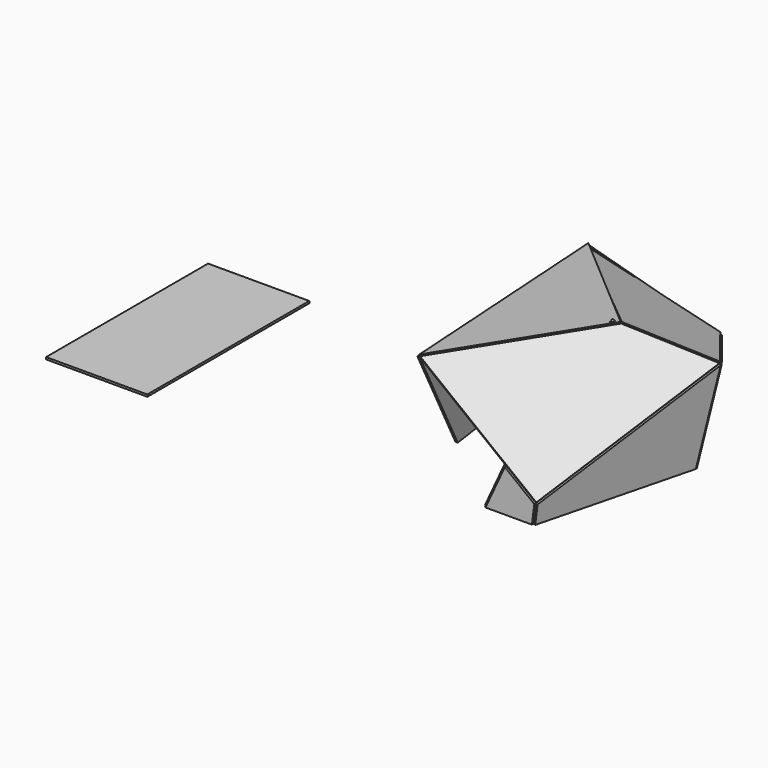
from build123d import *

# Parameters (mm, degrees)
F16_DEPTH = 25.4
F17_DEPTH = 25.4
F18_DEPTH = 25.4
F19_DEPTH = 25.4
F20_DEPTH = 25.4
F21_DEPTH = 25.4
F22_DEPTH = 25.4
F23_DEPTH = 25.4
F26_DEPTH = 25.4
F31_DEPTH = 25.4
F32_DEPTH = 25.4
F33_W     = 1219.2
F33_H     = 2438.4
F34_DEPTH = 25.4
F35_DEPTH = 25.4


with BuildPart() as f16:
    # F1 (on Front) → F16 (new body)
    with BuildSketch(Plane.XZ):
        Polygon((-279.4, 0), (279.4, 0), (307.8816668442, 226.8187705058), (-46.8548983335, 503.6984086037), align=None)
    extrude(amount=F16_DEPTH)


with BuildPart() as f17:
    # F3 (on 3pt) → F17 (new body)
    with BuildSketch(Plane(origin=(258.5105207119, -65.9273870343, -32.4612046447), x_dir=(-0.2433976143, -0.9694449316, 0.0305634747), z_dir=(-0.9618911087, 0.245309039, 0.12078481))):
        Polygon((-2117.7925844661, 1201.5217848882), (-1959.2784362289, 93.0687444366), (-68.0052934274, 34.810926143), (-68.0052934274, 263.410926143), align=None)
    extrude(amount=-F17_DEPTH)


with BuildPart() as f18:
    # F5 (on 3pt) → F18 (new body)
    with BuildSketch(Plane(origin=(176.1431812931, -153.1772461427, 225.6736087228), x_dir=(0.8400492209, 0.3046768722, -0.4488756064), z_dir=(-0.5425101902, 0.4717765191, -0.6950608675))):
        Polygon((889.8676974818, -2259.1248491661), (156.8223412087, -127.3827382517), (-1511.6540853023, -741.7689475509), (-89.3313576369, -2075.2221325219), align=None)
    extrude(amount=-F18_DEPTH)


with BuildPart() as f19:
    # F7 (on 3pt) → F19 (new body)
    with BuildSketch(Plane(origin=(1302.0191575201, 941.6738739175, -342.252174384), x_dir=(-0.5543439336, 0.8194324638, 0.1457163019), z_dir=(0.7925098321, 0.5731757473, -0.2083212153))):
        Polygon((1275.8611263971, 1293.8184315341), (1088.3279929288, 189.904394152), (1728.4690277042, 93.4565965208), (2273.0899174363, 905.4658028292), align=None)
    extrude(amount=F19_DEPTH)


with BuildPart() as f20:
    # F9 (on 3pt) → F20 (new body)
    with BuildSketch(Plane(origin=(157.1206243191, 1889.8710953135, -958.0431618682), x_dir=(0.9972618594, -0.0659599829, 0.0334374713), z_dir=(-0.0739512261, -0.8894967495, 0.450917674))):
        Polygon((-1683.4026535863, 2383.4902749533), (-1183.9918683013, 1118.4989686478), (-648.6051863466, 1098.4281154192), (211.0692676119, 1066.2001942338), (115.3338729538, 2039.2395556533), align=None)
    extrude(amount=-F20_DEPTH)


with BuildPart() as f21:
    # F11 (on 3pt) → F21 (new body)
    with BuildSketch(Plane(origin=(-260.5111936895, -22.5527656992, -66.4237776601), x_dir=(0.0810020736, -0.9964999236, 0.0206534838), z_dir=(-0.9656060842, -0.0835936739, -0.2462051743))):
        Polygon((-2760.7156026321, 707.8059065245), (-2460.4782874181, 120.9922708969), (-22.6319793566, 69.0313406617), align=None)
    extrude(amount=F21_DEPTH)


with BuildPart() as f22:
    # F13 (on 3pt) → F22 (new body)
    with BuildSketch(Plane(origin=(-220.3405442372, -51.624199763, 101.7257815107), x_dir=(0.1889020777, -0.9781156238, -0.0872114188), z_dir=(-0.888043026, -0.2080620738, 0.4099875089))):
        Polygon((-1608.747287406, 1341.8075368411), (-2842.3268717395, 234.3959760147), (-1630.5768910629, 81.7039933705), align=None)
    extrude(amount=F22_DEPTH)


with BuildPart() as f23:
    # F15 (on 3pt) → F23 (new body)
    with BuildSketch(Plane(origin=(307.1813398677, 733.685038507, 1734.4014121101), x_dir=(0.986956196, -0.0627204998, -0.1482686952), z_dir=(0.1609890278, 0.3845130734, 0.908973173))):
        Polygon((-1859.731536833, 2402.2921811744), (-208.8045009332, 857.6383668308), (624.6422180254, 1403.5482178059), (-35.5057733039, 2245.8591196962), align=None)
    extrude(amount=F23_DEPTH)


with BuildPart() as f26:
    # F25 (on 3pt) → F26 (new body)
    with BuildSketch(Plane(origin=(-570.7183420249, 775.7685880845, 1563.5274522631), x_dir=(0.950478354, 0.138135192, 0.2784054011), z_dir=(-0.3107907634, 0.422453063, 0.8514355589))):
        Polygon((886.7714192624, 2127.7754211615), (-92.8943842417, 2194.2066627047), (706.8217630863, 740.4011281438), align=None)
    extrude(amount=F26_DEPTH)


with BuildPart() as f31:
    # F28 (on 3pt) → F31 (new body)
    with BuildSketch(Plane(origin=(-221.3012550993, 67.8190181099, 1450.7140192517), x_dir=(0.988588513, 0.0070345971, 0.1504767972), z_dir=(-0.1506411366, 0.0461648262, 0.9875100287))):
        Polygon((-882.489922541, -61.6783440279), (326.1232502517, 1468.1430627693), (-1315.3818438356, 3023.3495508983), align=None)
    extrude(amount=F31_DEPTH)


with BuildPart() as f32:
    # F30 (on 3pt) → F32 (new body)
    with BuildSketch(Plane(origin=(-1176.6387227062, -156.7630519988, 100.0528784431), x_dir=(0.1311228201, -0.9913034295, -0.0111497398), z_dir=(-0.9877389007, -0.131596013, 0.0839901987))):
        Polygon((-3263.763717823, 978.6721667049), (-2026.8612646883, -123.0944772383), (-1024.6365331789, -123.0944772383), (-158.1383129845, 1223.3829609431), align=None)
    extrude(amount=F32_DEPTH)


with BuildPart() as f34:
    # F33 (on Top) → F34 (new body)
    with BuildSketch(Plane.XY):
        with Locations((-4781.1198914323, 967.000991106)):
            Rectangle(F33_W, F33_H)
    extrude(amount=F34_DEPTH)


with BuildPart() as f35:
    # F13 (on 3pt) → F35 (new body)
    with BuildSketch(Plane(origin=(-220.3405442372, -51.624199763, 101.7257815107), x_dir=(0.1889020777, -0.9781156238, -0.0872114188), z_dir=(-0.888043026, -0.2080620738, 0.4099875089))):
        Polygon((-1608.747287406, 1341.8075368411), (-1630.5768910629, 81.7039933705), (-52.77924052, -117.1134651108), (-52.77924052, 437.6741619492), align=None)
    extrude(amount=F35_DEPTH)


solid = Compound([f16.part, f17.part, f18.part, f19.part, f20.part, f21.part, f22.part, f23.part, f26.part, f31.part, f32.part, f34.part, f35.part])
